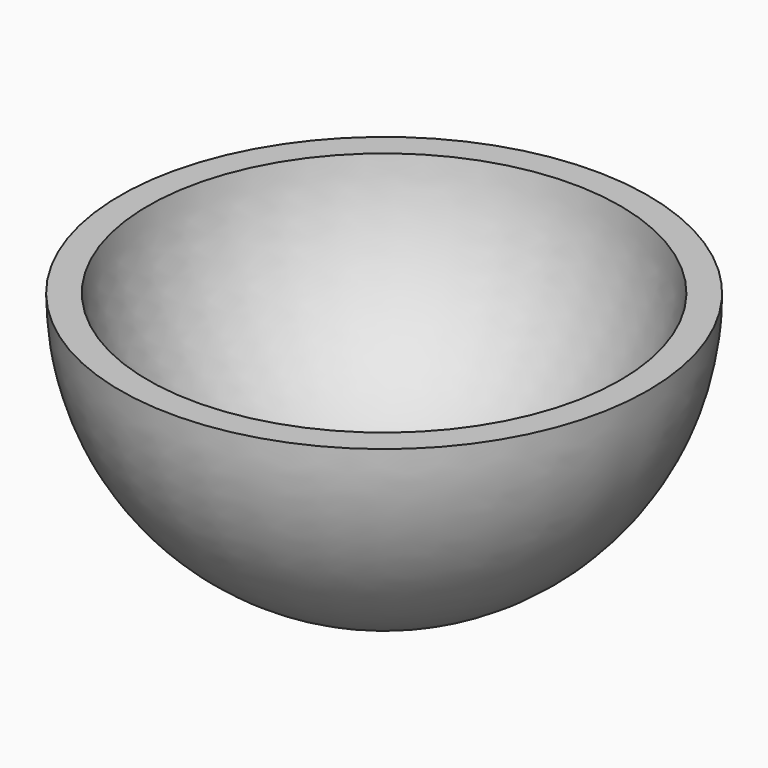
from build123d import *


with BuildPart() as sphere001:
    # Sphere001 → Sphere001 (revolve)
    with BuildSketch(Plane(origin=(16.5428, -16.9323, 1), x_dir=(1, 0, 0), z_dir=(0, -1, 0))):
        with BuildLine():
            ThreePointArc((0, -9), (6.363961, -6.363961), (9, 0))
            Line((9, 0), (0, 0))
            Line((0, 0), (0, -9))
        make_face()
    revolve(axis=Axis((16.5428, -16.9323, 1), (0, 0, 1)))


with BuildPart() as cut006:
    # Sphere → Sphere (revolve)
    with BuildSketch(Plane(origin=(16.542849, -16.932314, 0), x_dir=(1, 0, 0), z_dir=(0, -1, 0))):
        with BuildLine():
            ThreePointArc((0, -10), (7.071068, -7.071068), (10, 0))
            Line((10, 0), (0, 0))
            Line((0, 0), (0, -10))
        make_face()
    revolve(axis=Axis((16.542849, -16.932314, 0), (0, 0, 1)))

    # Cut006: cut Sphere001
    add(sphere001.part, mode=Mode.SUBTRACT)


with BuildPart() as cut006_1:
    # Cut006 placement: moved
    add(cut006.part.moved(Location((-0.04745, 0.430952, 1))))


solid = cut006_1.part
